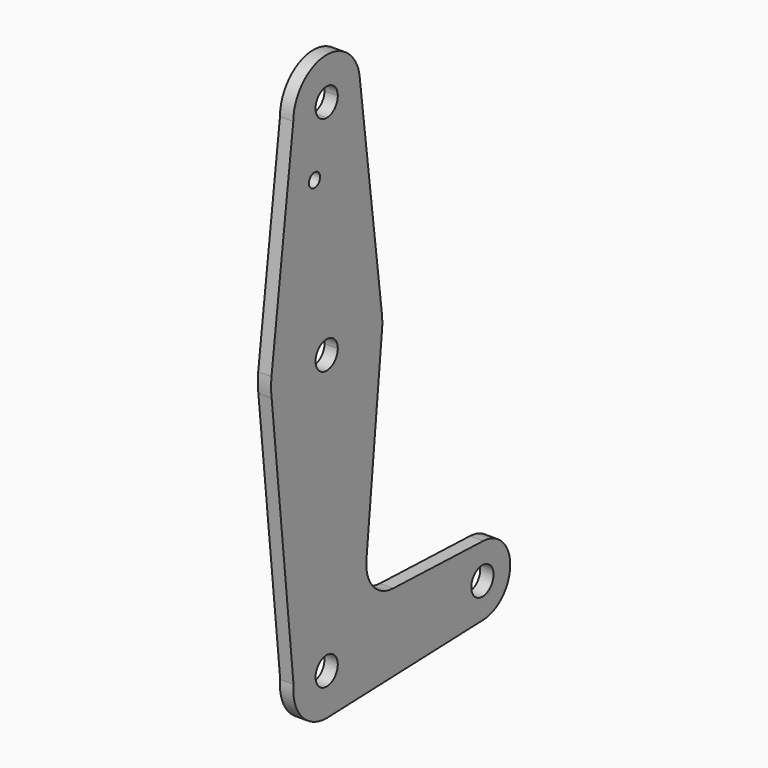
from build123d import *

# Parameters (mm, degrees)
F0_R     = 1.5875
F0_R_2   = 3.175
F1_DEPTH = 3.03784


with BuildPart() as f1:
    # F0 (on Right) → F1 (new body)
    with BuildSketch(Plane.YZ):
        with BuildLine():
            ThreePointArc((15.7497004653, 65.4906180579), (10.4979655965, 75.4083308375), (0, 79.375))
            ThreePointArc((0, 79.375), (-10.4912828548, 75.4142187767), (-15.7474569047, 65.5082893304))
            ThreePointArc((-15.7474569047, 65.5082893304), (-15.8739454626, 63.3170233585), (-15.6969804211, 61.1292552518))
            ThreePointArc((-15.6969804211, 61.1292552518), (0.0464535078, 47.6250679664), (15.7105861166, 61.2211606302))
            Line((15.7105861166, 61.2211606302), (15.8502926174, 62.6146475598))
            ThreePointArc((15.8502926174, 62.6146475598), (15.8688219522, 63.0571514372), (15.875, 63.5))
            ThreePointArc((15.875, 63.5), (15.8436441497, 64.4972788258), (15.7497004653, 65.4906180579))
        make_face()
        with BuildLine():
            ThreePointArc((3.175, 63.5), (-2.2450640303, 61.2549359697), (0, 66.675))
            ThreePointArc((0, 66.675), (2.2450640303, 65.7450640303), (3.175, 63.5))
        make_face(mode=Mode.SUBTRACT)
        with BuildLine():
            ThreePointArc((-15.7474569047, 65.5082893304), (-10.4912828548, 75.4142187767), (0, 79.375))
            Line((0, 79.375), (0, 104.775))
            ThreePointArc((0, 104.775), (-6.7351920908, 107.5648079092), (-9.525, 114.3))
            Line((-9.525, 114.3), (-15.7474569047, 65.5082893304))
        make_face()
        with Locations((-3.471893943, 100.0252)):
            Circle(F0_R, mode=Mode.SUBTRACT)
        with BuildLine():
            Line((0, 104.775), (0, 79.375))
            ThreePointArc((0, 79.375), (10.4979655965, 75.4083308375), (15.7497004653, 65.4906180579))
            Line((15.7497004653, 65.4906180579), (9.5073158461, 114.8801468796))
            ThreePointArc((9.5073158461, 114.8801468796), (9.520577935, 114.5902081715), (9.525, 114.3))
            ThreePointArc((9.525, 114.3), (6.7351920908, 107.5648079092), (0, 104.775))
        make_face()
        with BuildLine():
            ThreePointArc((-9.525, 114.3), (-6.7351920908, 107.5648079092), (0, 104.775))
            ThreePointArc((0, 104.775), (6.7351920908, 107.5648079092), (9.525, 114.3))
            ThreePointArc((9.525, 114.3), (9.520577935, 114.5902081715), (9.5073158461, 114.8801468796))
            ThreePointArc((9.5073158461, 114.8801468796), (-0.2902081715, 123.820577935), (-9.525, 114.3))
        make_face()
        with BuildLine():
            ThreePointArc((3.175, 114.3), (2.2450640303, 112.0549359697), (0, 111.125))
            ThreePointArc((0, 111.125), (-2.2450640303, 116.5450640303), (3.175, 114.3))
        make_face(mode=Mode.SUBTRACT)
        with BuildLine():
            ThreePointArc((15.7105861166, 61.2211606302), (0.0464535078, 47.6250679664), (-15.6969804211, 61.1292552518))
            Line((-15.6969804211, 61.1292552518), (-9.4602752495, 1.1085202765))
            ThreePointArc((-9.4602752495, 1.1085202765), (0.5552041284, 9.5088050446), (9.525, 0))
            ThreePointArc((9.525, 0), (6.9705567315, -6.4912990883), (0.6773435479, -9.500885786))
            Line((0.6773435479, -9.500885786), (44.7324052746, -7.9324746146))
            ThreePointArc((44.7324052746, -7.9324746146), (36.5125, 0), (44.7324052746, 7.9324746146))
            Line((44.7324052746, 7.9324746146), (18.9637645256, 8.8498680409))
            ThreePointArc((18.9637645256, 8.8498680409), (13.2572798555, 11.5668929827), (11.3360783437, 17.588120148))
            Line((11.3360783437, 17.588120148), (15.7105861166, 61.2211606302))
        make_face()
        with BuildLine():
            ThreePointArc((15.7105861166, 61.2211606302), (15.7958133083, 61.9163627533), (15.8502926174, 62.6146475598))
            Line((15.8502926174, 62.6146475598), (15.7105861166, 61.2211606302))
        make_face()
        with BuildLine():
            ThreePointArc((9.525, 0), (0.5552041284, 9.5088050446), (-9.4602752495, 1.1085202765))
            ThreePointArc((-9.4602752495, 1.1085202765), (-7.1163291321, -6.3311519239), (0, -9.525))
            Line((0, -9.525), (0.6773435479, -9.500885786))
            ThreePointArc((0.6773435479, -9.500885786), (6.9705567315, -6.4912990883), (9.525, 0))
        make_face()
        Circle(F0_R_2, mode=Mode.SUBTRACT)
        with BuildLine():
            Line((0.6773435479, -9.500885786), (0, -9.525))
            ThreePointArc((0, -9.525), (0.3388863295, -9.5189695375), (0.6773435479, -9.500885786))
        make_face()
        with BuildLine():
            ThreePointArc((52.3875, 0), (50.1616327839, 5.5119104847), (44.7324052746, 7.9324746146))
            ThreePointArc((44.7324052746, 7.9324746146), (36.5125, 0), (44.7324052746, -7.9324746146))
            ThreePointArc((44.7324052746, -7.9324746146), (50.1616327839, -5.5119104847), (52.3875, 0))
        make_face()
        with Locations((44.45, 0)):
            Circle(F0_R_2, mode=Mode.SUBTRACT)
    extrude(amount=F1_DEPTH)


solid = f1.part
